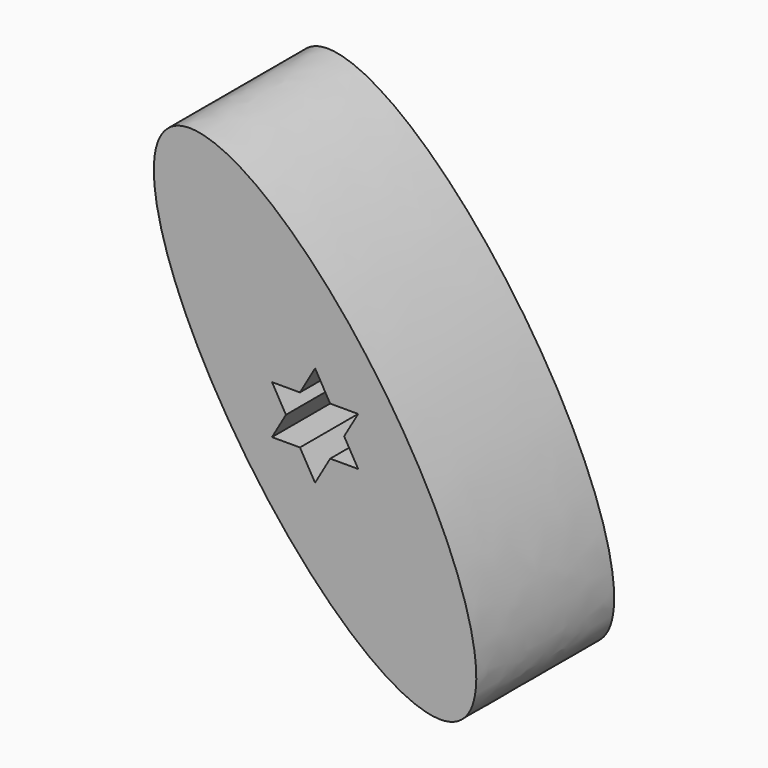
from build123d import *

# Parameters (mm, degrees)
F1_DEPTH = 30
F3_DEPTH = 30.0010001


with BuildPart() as f1:
    # F0 (on Front) → F1 (new body)
    with BuildSketch(Plane.XZ):
        with BuildLine():
            add(Edge.make_bspline(
                [(12.4350302813, 8.3886841581), (-31.15385123, 73.0029968805), (-28.0119558963, 28.1128142822), (-24.8700605625, -16.7773683161), (15.576925615, -36.5014984403), (56.0239117925, -56.2256285644), (12.4350302813, 8.3886841581)],
                knots=[4.7123889804, 4.7123889804, 4.7123889804, 6.8067840828, 6.8067840828, 8.9011791852, 8.9011791852, 10.9955742876, 10.9955742876, 10.9955742876], degree=2, weights=[1, 0.5, 1, 0.5, 1, 0.5, 1]))
        make_face()
    extrude(amount=F1_DEPTH)

    # F2 (on face) → F3 (cut, through all)
    with BuildSketch(Plane(origin=(0, 0, 0), x_dir=(-1, 0, 0), z_dir=(0, 1, 0))):
        Polygon((-2.6311014825, 3.9480387642), (-7.4999998324, 3.9480387642), (-5.0655506575, -0.2685508952), align=None)
        Polygon((1.676e-07, 8.5052405022), (-2.6311014825, 3.9480387642), (2.6311018178, 3.9480387642), align=None)
        Polygon((2.6311018178, 3.9480387642), (-2.6311014825, 3.9480387642), (-5.0655506575, -0.2685508952), (-2.6311014825, -4.4851405546), (2.6311018178, -4.4851405546), (5.0655509927, -0.2685508952), align=None)
        Polygon((-2.6311014825, -4.4851405546), (-5.0655506575, -0.2685508952), (-7.4999998324, -4.4851405546), align=None)
        Polygon((7.5000001676, 3.9480387642), (2.6311018178, 3.9480387642), (5.0655509927, -0.2685508952), align=None)
        Polygon((2.6311018178, -4.4851405546), (-2.6311014825, -4.4851405546), (1.676e-07, -9.0423422926), align=None)
        Polygon((7.5000001676, -4.4851405546), (5.0655509927, -0.2685508952), (2.6311018178, -4.4851405546), align=None)
    extrude(amount=-F3_DEPTH, mode=Mode.SUBTRACT)


solid = f1.part
